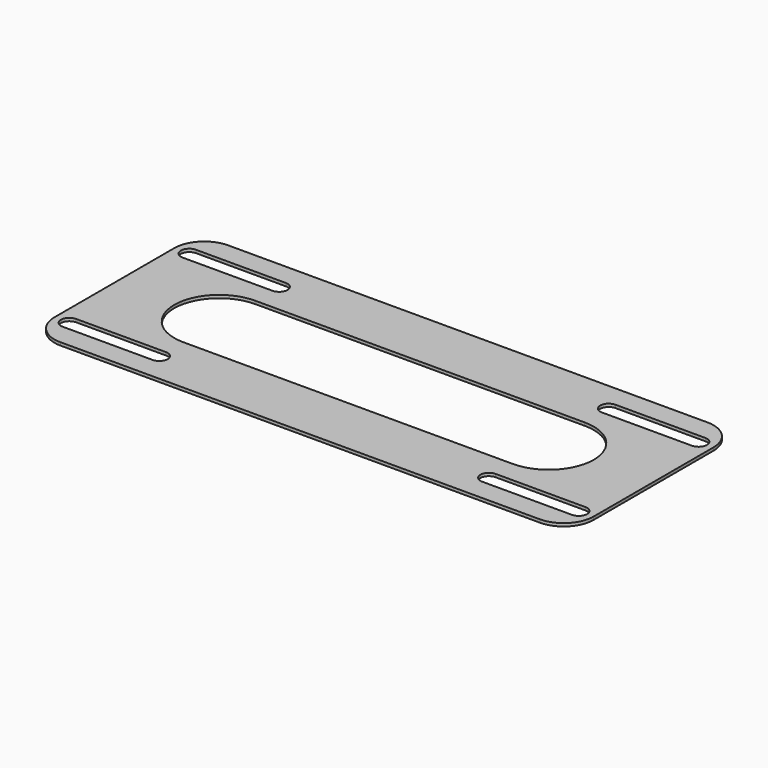
from build123d import *

# Parameters (mm, degrees)
F0_W     = 228.6
F0_H     = 88.9
F1_DEPTH = 1.27
F2_R     = 12.7
F4_DEPTH = 25.4
F6_DEPTH = 1.271


with BuildPart() as f1:
    # F0 (on Top) → F1 (new body)
    with BuildSketch(Plane.XY):
        with Locations((114.3, 44.45)):
            Rectangle(F0_W, F0_H)
    extrude(amount=F1_DEPTH)

    # F2
    f2_edges = [f1.edges().sort_by_distance(p)[0] for p in [
        (228.6, 0, 0.635),
        (228.6, 88.9, 0.635),
        (0, 88.9, 0.635),
        (0, 0, 0.635),
    ]]
    fillet(f2_edges, radius=F2_R)

    # F3 (on face) → F4 (cut)
    with BuildSketch(Plane.XY.offset(1.27)):
        with BuildLine():
            Line((44.45, 16.2687), (6.35, 16.2687))
            ThreePointArc((6.35, 16.2687), (2.7813, 12.7), (6.35, 9.1313))
            Line((6.35, 9.1313), (44.45, 9.1313))
            ThreePointArc((44.45, 9.1313), (48.0187, 12.7), (44.45, 16.2687))
        make_face()
        with BuildLine():
            ThreePointArc((6.35, 79.7687), (2.7813, 76.2), (6.35, 72.6313))
            Line((6.35, 72.6313), (44.45, 72.6313))
            ThreePointArc((44.45, 72.6313), (48.0187, 76.2), (44.45, 79.7687))
            Line((44.45, 79.7687), (6.35, 79.7687))
        make_face()
        with BuildLine():
            ThreePointArc((222.25, 72.6313), (225.8187, 76.2), (222.25, 79.7687))
            Line((222.25, 79.7687), (184.15, 79.7687))
            ThreePointArc((184.15, 79.7687), (180.5813, 76.2), (184.15, 72.6313))
            Line((184.15, 72.6313), (222.25, 72.6313))
        make_face()
        with BuildLine():
            ThreePointArc((222.25, 9.1313), (225.8187, 12.7), (222.25, 16.2687))
            Line((222.25, 16.2687), (184.15, 16.2687))
            ThreePointArc((184.15, 16.2687), (180.5813, 12.7), (184.15, 9.1313))
            Line((184.15, 9.1313), (222.25, 9.1313))
        make_face()
    extrude(amount=-F4_DEPTH, mode=Mode.SUBTRACT)

    # F5 (on face) → F6 (cut, through all)
    with BuildSketch(Plane.XY.offset(1.27)):
        with BuildLine():
            ThreePointArc((44.45, 63.5), (25.4, 44.45), (44.45, 25.4))
            Line((44.45, 25.4), (114.3, 25.4))
            Line((114.3, 25.4), (184.15, 25.4))
            ThreePointArc((184.15, 25.4), (203.2, 44.45), (184.15, 63.5))
            Line((184.15, 63.5), (114.3, 63.5))
            Line((114.3, 63.5), (44.45, 63.5))
        make_face()
    extrude(amount=-F6_DEPTH, mode=Mode.SUBTRACT)


solid = f1.part
